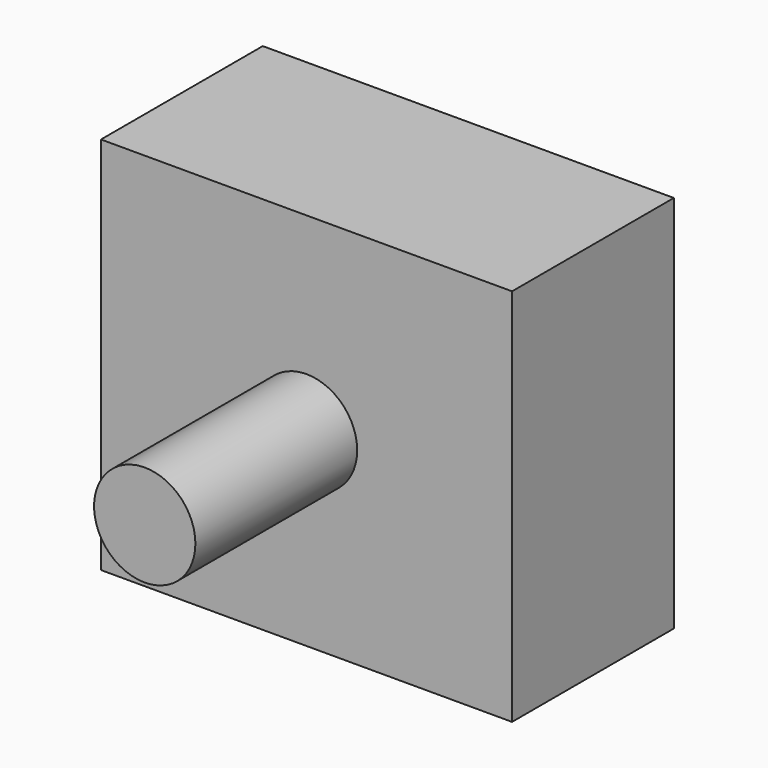
from build123d import *

# Parameters (mm, degrees)
F0_W     = 51.630139
F0_H     = 47.6119
F1_DEPTH = 25.4
F2_T     = -127
F3_T     = -2.54
F4_R     = 6.362452
F5_DEPTH = 25.4


with BuildPart() as f1:
    # F0 (on Front) → F1 (new body)
    with BuildSketch(Plane.XZ):
        with Locations((25.815069, 23.80595)):
            Rectangle(F0_W, F0_H)
    extrude(amount=F1_DEPTH)

    # F2
    f2_openings = [f1.faces().sort_by_distance(p)[0] for p in [
        (0, -12.7, 23.80595),
    ]]
    offset(amount=F2_T, openings=f2_openings)

    # F3
    f3_openings = [f1.faces().sort_by_distance(p)[0] for p in [
        (25.81507, -12.7, 0),
    ]]
    offset(amount=F3_T, openings=f3_openings)

    # F4 (on face) → F5 (join)
    with BuildSketch(Plane.XZ.offset(25.4)):
        with Locations((25.81507, 23.704037)):
            Circle(F4_R)
    extrude(amount=F5_DEPTH)


solid = f1.part
